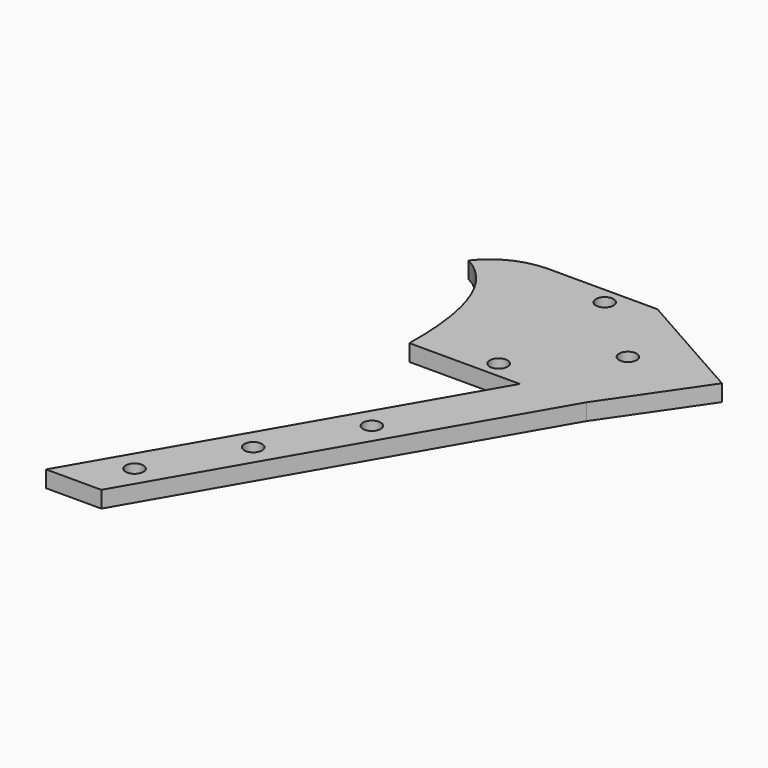
from build123d import *

# Parameters (mm, degrees)
SKETCH_R  = 0.8
PAD_DEPTH = 1.5


with BuildPart() as part:
    # Sketch → Pad (new body)
    with BuildSketch(Plane.XY):
        with BuildLine():
            Line((12.124356, 21), (2.124356, 21))
            add(Edge.make_bspline(
                [(-2.5, 33.5), (2.301311, 30.873257), (2.124356, 21)],
                knots=[0, 0, 0, 1, 1, 1], degree=2))
            add(Edge.make_bspline(
                [(2.572068, 36), (-0.563366, 35.88435), (-2.5, 33.5)],
                knots=[0, 0, 0, 1, 1, 1], degree=2))
            Line((2.572068, 36), (12.572068, 36))
            Line((12.572068, 36), (23.212256, 29.991259))
            Line((23.212256, 29.991259), (17.554762, 21.745486))
            Line((17.554762, 21.745486), (-0.84276, -10.119957))
            Line((-0.84276, -10.119957), (-5.84276, -10.119957))
            Line((-5.84276, -10.119957), (12.124356, 21))
        make_face()
        with Locations((9, 22.5)):
            Circle(SKETCH_R, mode=Mode.SUBTRACT)
        with Locations((9, 34.5)):
            Circle(SKETCH_R, mode=Mode.SUBTRACT)
        with Locations((15.5, 29)):
            Circle(SKETCH_R, mode=Mode.SUBTRACT)
        with Locations((-1.039206, -6.119957)):
            Circle(SKETCH_R, mode=Mode.SUBTRACT)
        with Locations((7.960794, 9.4685)):
            Circle(SKETCH_R, mode=Mode.SUBTRACT)
        with Locations((3.460794, 1.674271)):
            Circle(SKETCH_R, mode=Mode.SUBTRACT)
    extrude(amount=PAD_DEPTH)


solid = part.part
